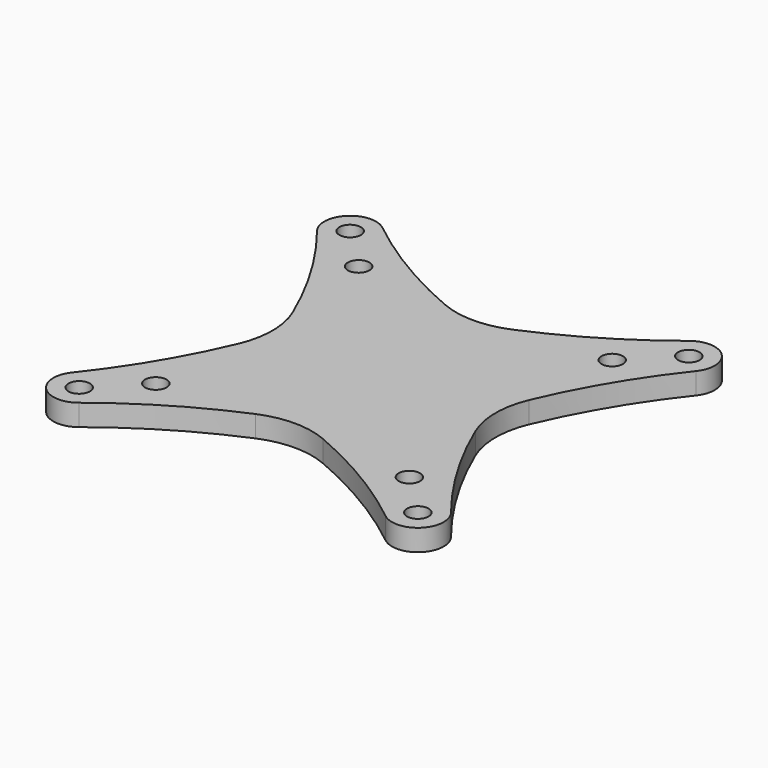
from build123d import *

# Parameters (mm, degrees)
F0_R     = 3.175
F1_DEPTH = 6.35


with BuildPart() as f1:
    # F0 (on Top) → F1 (new body)
    with BuildSketch(Plane.XY):
        with BuildLine():
            ThreePointArc((-9.930606, 34.969786), (-28.317401, 44.295193), (-45.277317, 56.016913))
            ThreePointArc((-45.277317, 56.016913), (-55.442235, 55.442235), (-56.016913, 45.277317))
            ThreePointArc((-56.016913, 45.277317), (-44.295193, 28.317401), (-34.969786, 9.930606))
            ThreePointArc((-34.969786, 9.930606), (-32.948046, 0), (-34.969786, -9.930606))
            ThreePointArc((-34.969786, -9.930606), (-44.295193, -28.317401), (-56.016913, -45.277317))
            ThreePointArc((-56.016913, -45.277317), (-55.442235, -55.442235), (-45.277317, -56.016913))
            ThreePointArc((-45.277317, -56.016913), (-28.317401, -44.295193), (-9.930606, -34.969786))
            ThreePointArc((-9.930606, -34.969786), (0, -32.948046), (9.930606, -34.969786))
            ThreePointArc((9.930606, -34.969786), (28.317401, -44.295193), (45.277317, -56.016913))
            ThreePointArc((45.277317, -56.016913), (55.442235, -55.442235), (56.016913, -45.277317))
            ThreePointArc((56.016913, -45.277317), (44.295193, -28.317401), (34.969786, -9.930606))
            ThreePointArc((34.969786, -9.930606), (32.948046, 0), (34.969786, 9.930606))
            ThreePointArc((34.969786, 9.930606), (44.295193, 28.317401), (56.016913, 45.277317))
            ThreePointArc((56.016913, 45.277317), (55.442235, 55.442235), (45.277317, 56.016913))
            ThreePointArc((45.277317, 56.016913), (28.317401, 44.295193), (9.930606, 34.969786))
            ThreePointArc((9.930606, 34.969786), (0, 32.948046), (-9.930606, 34.969786))
        make_face()
        with Locations((-50.038, -50.038)):
            Circle(F0_R, mode=Mode.SUBTRACT)
        with Locations((-37.465, -37.465)):
            Circle(F0_R, mode=Mode.SUBTRACT)
        with Locations((50.038, -50.038)):
            Circle(F0_R, mode=Mode.SUBTRACT)
        with Locations((37.465, -37.465)):
            Circle(F0_R, mode=Mode.SUBTRACT)
        with Locations((-37.465, 37.465)):
            Circle(F0_R, mode=Mode.SUBTRACT)
        with Locations((-50.038, 50.038)):
            Circle(F0_R, mode=Mode.SUBTRACT)
        with Locations((37.465, 37.465)):
            Circle(F0_R, mode=Mode.SUBTRACT)
        with Locations((50.038, 50.038)):
            Circle(F0_R, mode=Mode.SUBTRACT)
    extrude(amount=F1_DEPTH)


solid = f1.part
